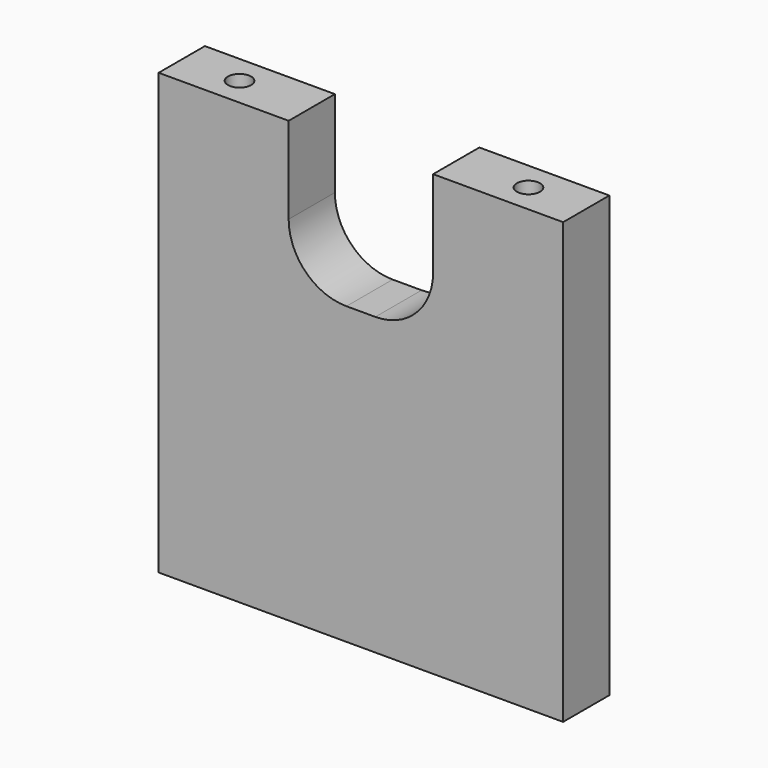
from build123d import *

# Parameters (mm, degrees)
F0_W     = 88.9
F0_H     = 12.7
F1_DEPTH = 96.6975968
F3_D     = 5.1054
F3_DEPTH = 13.97
F3_TIP   = 1.5338169022
F5_D     = 5.1054
F5_DEPTH = 13.97
F5_TIP   = 1.5338169022
F7_DEPTH = 25.4


with BuildPart() as f1:
    # F0 (on Top) → F1 (new body)
    with BuildSketch(Plane.XY):
        with Locations((-44.45, 6.35)):
            Rectangle(F0_W, F0_H)
    extrude(amount=F1_DEPTH)

    # F3
    with Locations(Plane.XY.offset(96.6975968)):
        with Locations((-76.2, 6.35), (-12.7, 6.35)):
            Hole(F3_D / 2, depth=F3_DEPTH)
            with Locations((0, 0, -(F3_DEPTH + F3_TIP / 2))):  # 118° drill point
                Cone(0, F3_D / 2, F3_TIP, mode=Mode.SUBTRACT)

    # F5
    with Locations(Plane(origin=(0, 0, 0), x_dir=(1, 0, 0), z_dir=(0, 0, -1))):
        with Locations((-76.2, -6.35), (-12.7, -6.35)):
            Hole(F5_D / 2, depth=F5_DEPTH)
            with Locations((0, 0, -(F5_DEPTH + F5_TIP / 2))):  # 118° drill point
                Cone(0, F5_D / 2, F5_TIP, mode=Mode.SUBTRACT)

    # F6 (on face) → F7 (cut)
    with BuildSketch(Plane(origin=(0, 12.7, 0), x_dir=(-1, 0, 0), z_dir=(0, 1, 0))):
        with BuildLine():
            Line((60.325, 77.6475968), (60.325, 96.6975968))
            Line((60.325, 96.6975968), (28.575, 96.6975968))
            Line((28.575, 96.6975968), (28.575, 77.6475968))
            ThreePointArc((28.575, 77.6475968), (32.2947438789, 68.6673406789), (41.275, 64.9475968))
            Line((41.275, 64.9475968), (47.625, 64.9475968))
            ThreePointArc((47.625, 64.9475968), (56.6052561211, 68.6673406789), (60.325, 77.6475968))
        make_face()
    extrude(amount=-F7_DEPTH, mode=Mode.SUBTRACT)


solid = f1.part
